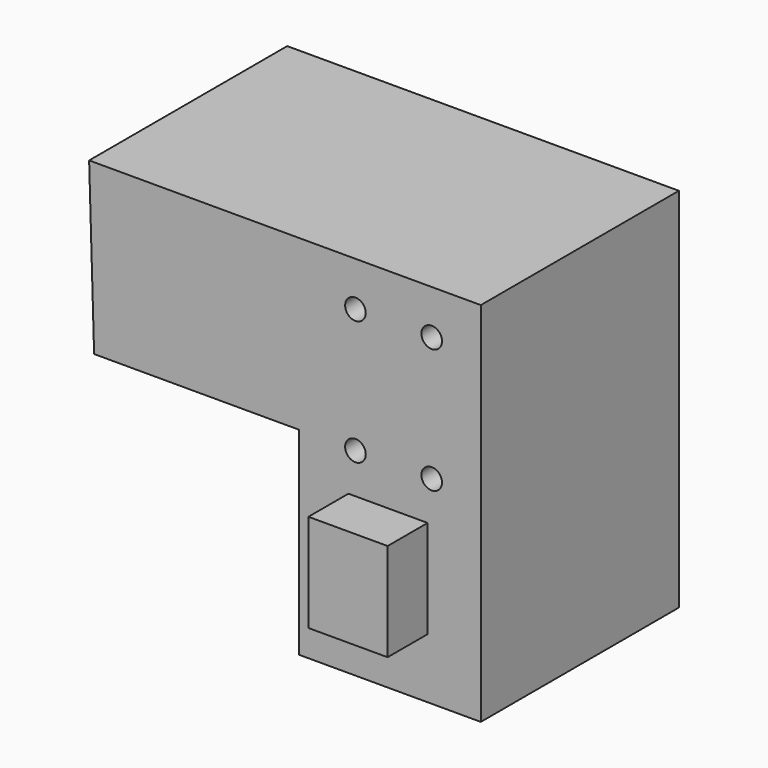
from build123d import *

# Parameters (mm, degrees)
F1_DEPTH = 76.2
F3_D     = 6.35
F4_W     = 24.373029
F4_H     = 30.136249
F5_DEPTH = 15.38986


with BuildPart() as f1:
    # F0 (on Front) → F1 (new body)
    with BuildSketch(Plane.XZ):
        Polygon((-64.54286, 51.968571), (-63.009351, 0), (0, 0), (0, -60.967304), (56.001253, -60.967304), (56.001253, 51.968571), align=None)
    extrude(amount=F1_DEPTH)

    # F3 (through all)
    with Locations(Plane(origin=(0, 0, 0), x_dir=(-1, 0, 0), z_dir=(0, 1, 0))):
        with Locations((-40.89044, 38.303375), (-17.421992, 38.303375), (-17.421992, 0), (-40.89044, 0)):
            Hole(F3_D / 2)

    # F4 (on face) → F5 (join)
    with BuildSketch(Plane.XZ.offset(76.2)):
        with Locations((27.447664, -27.442444)):
            Rectangle(F4_W, F4_H)
    extrude(amount=F5_DEPTH)


solid = f1.part
